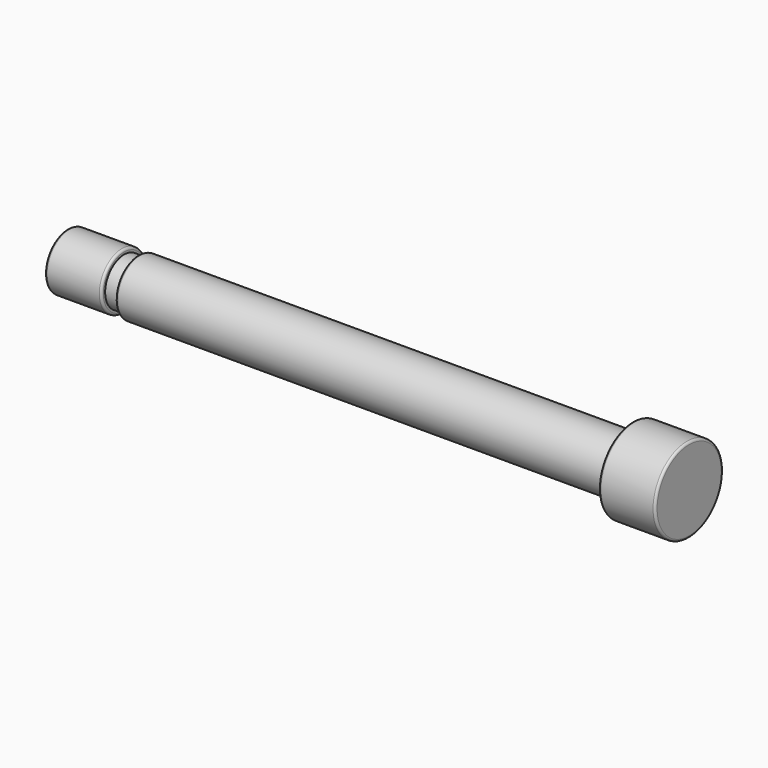
from build123d import *

# Parameters (mm, degrees)
F2_R = 0.254
F3_R = 0.254


with BuildPart() as f1:
    # F0 (on Front) → F1 (revolve)
    with BuildSketch(Plane.XZ):
        Polygon((6.3627, 0), (0, 0), (0, -3.175), (69.85, -3.175), (69.85, 1.5875), (63.5, 1.5875), (63.5, 0), (7.9375, 0), (7.9375, -0.508), (6.3627, -0.508), align=None)
    revolve(axis=Axis((34.925, 0, -3.175), (-1, 0, 0)))

    # F2
    f2_edges = [f1.edges().sort_by_distance(p)[0] for p in [
        (0, 0, -6.35),
        (63.5, 0, -7.9375),
        (69.85, 0, -7.9375),
    ]]
    fillet(f2_edges, radius=F2_R)

    # F3
    f3_edges = [f1.edges().sort_by_distance(p)[0] for p in [
        (7.9375, 0, -6.35),
        (6.3627, 0, -6.35),
    ]]
    fillet(f3_edges, radius=F3_R)


solid = f1.part
